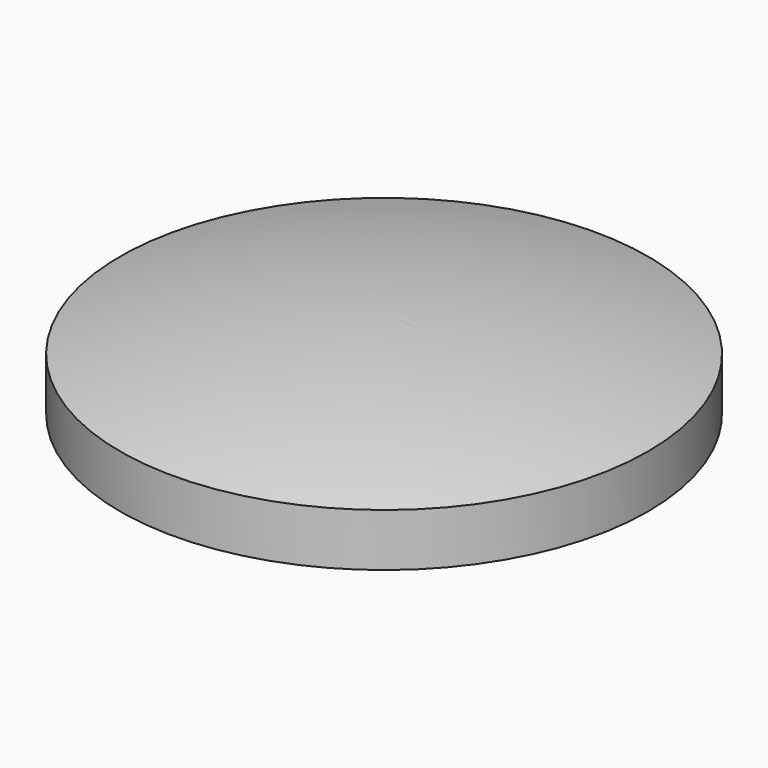
from build123d import *

# Parameters (mm, degrees)
SKETCH001_R   = 14.977634
SKETCH001_R_2 = 13.029321
PAD_DEPTH     = 3


with BuildPart() as part:
    # Sketch → Revolution (revolve)
    with BuildSketch(Plane.XZ):
        with BuildLine():
            Line((0, 2.016875), (0, 0))
            Line((0, 0), (14.967946, 0))
            ThreePointArc((14.967946, 0), (7.552383, 1.516131), (0, 2.016875))
        make_face()
    revolve(axis=Axis((0, 0, 0), (0, 0, 1)))

    # Sketch001 → Pad (new body)
    with BuildSketch(Plane(origin=(0, 0, 0), x_dir=(1, 0, 0), z_dir=(0, 0, -1))):
        Circle(SKETCH001_R)
        Circle(SKETCH001_R_2, mode=Mode.SUBTRACT)
    extrude(amount=PAD_DEPTH)


solid = part.part
